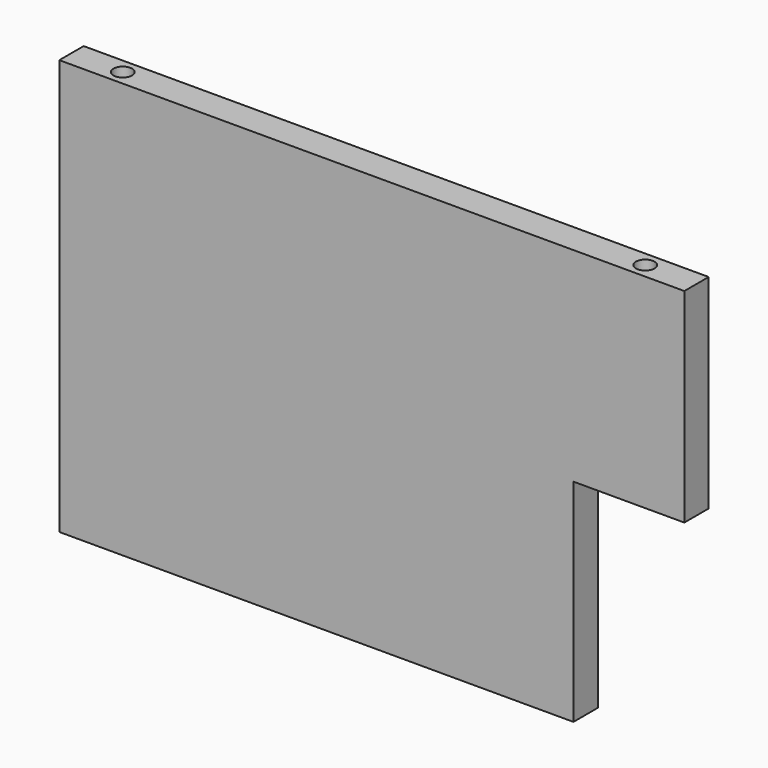
from build123d import *

# Parameters (mm, degrees)
F1_DEPTH = 4.75
F2_R     = 1.45
F3_DEPTH = 18


with BuildPart() as f1:
    # F0 (on Front) → F1 (new body)
    with BuildSketch(Plane.XZ):
        Polygon((0, 64.8), (0, 0), (80.2, 0), (80.2, 33), (97.5, 33), (97.5, 64.8), align=None)
    extrude(amount=F1_DEPTH)

    # F2 (on face) → F3 (cut)
    with BuildSketch(Plane.XY.offset(64.8)):
        with Locations((89.5, -2.375)):
            Circle(F2_R)
        with BuildLine():
            ThreePointArc((6.55, -2.375), (8, -3.825), (9.45, -2.375))
            ThreePointArc((9.45, -2.375), (8, -0.925), (6.55, -2.375))
        make_face()
    extrude(amount=-F3_DEPTH, mode=Mode.SUBTRACT)


solid = f1.part
